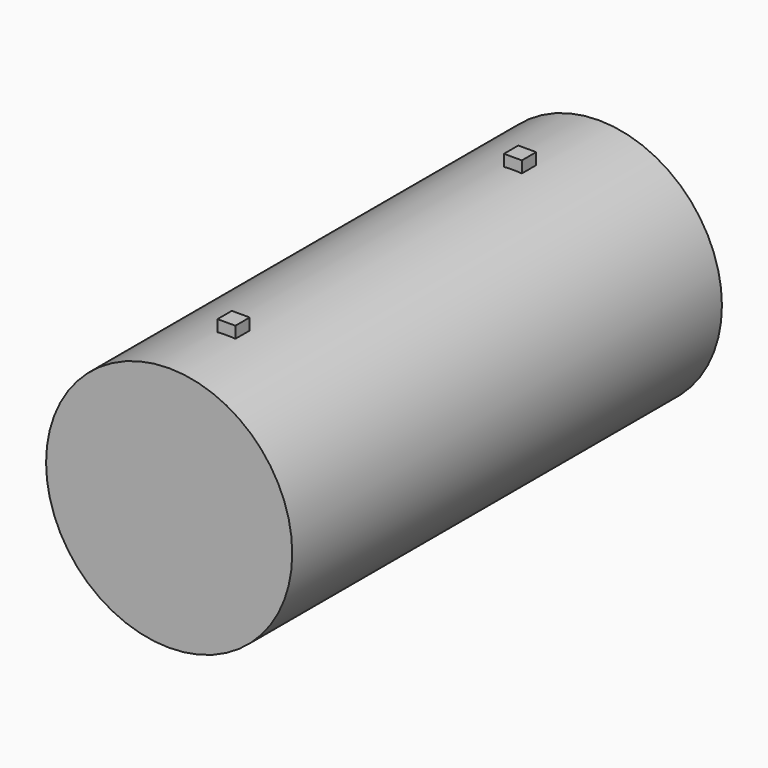
from build123d import *

# Parameters (mm, degrees)
F0_R     = 275
F1_DEPTH = 1200
F2_W     = 40
F2_H     = 40
F3_DEPTH = 300


with BuildPart() as f1:
    # F0 (on Front) → F1 (new body)
    with BuildSketch(Plane.XZ):
        Circle(F0_R)
    extrude(amount=F1_DEPTH)

    # F2 (on Top) → F3 (join)
    with BuildSketch(Plane.XY):
        with Locations((0, -220)):
            Rectangle(F2_W, F2_H)
        with Locations((0, -1020)):
            Rectangle(F2_W, F2_H)
    extrude(amount=F3_DEPTH)


solid = f1.part
